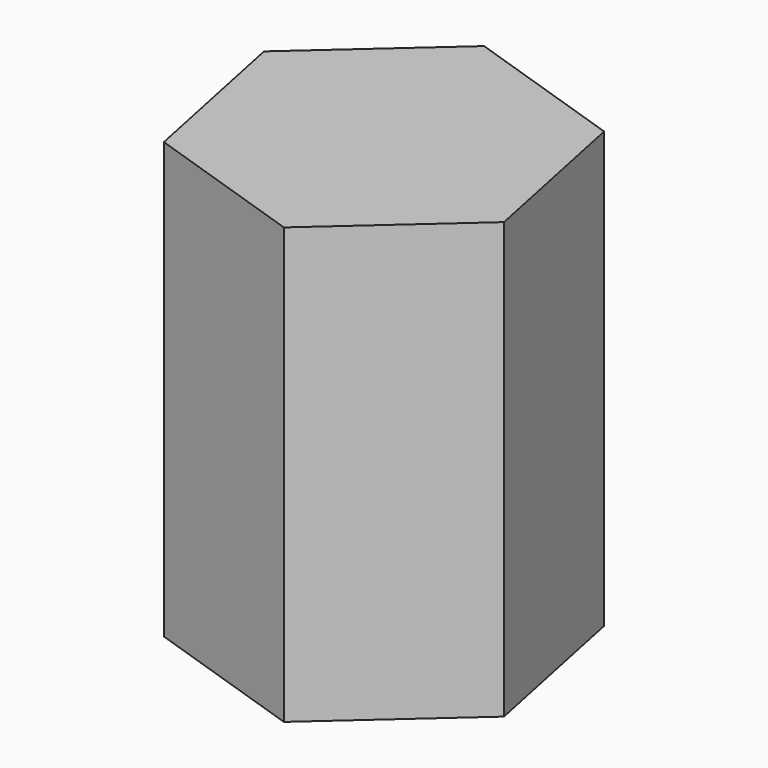
from build123d import *

# Parameters (mm, degrees)
F1_DEPTH      = 50.8
F1_DEPTH_BACK = 50.8


with BuildPart() as f1:
    # F0 (on Top) → F1 (new body, two sides)
    with BuildSketch(Plane.XY) as f1_sk:
        Polygon((30.016934, 26.691567), (-8.107108, 39.341211), (-38.124042, 12.649644), (-30.016934, -26.691567), (8.107108, -39.341211), (38.124042, -12.649644), align=None)
    extrude(amount=F1_DEPTH)
    extrude(f1_sk.sketch, amount=-F1_DEPTH_BACK)


solid = f1.part
